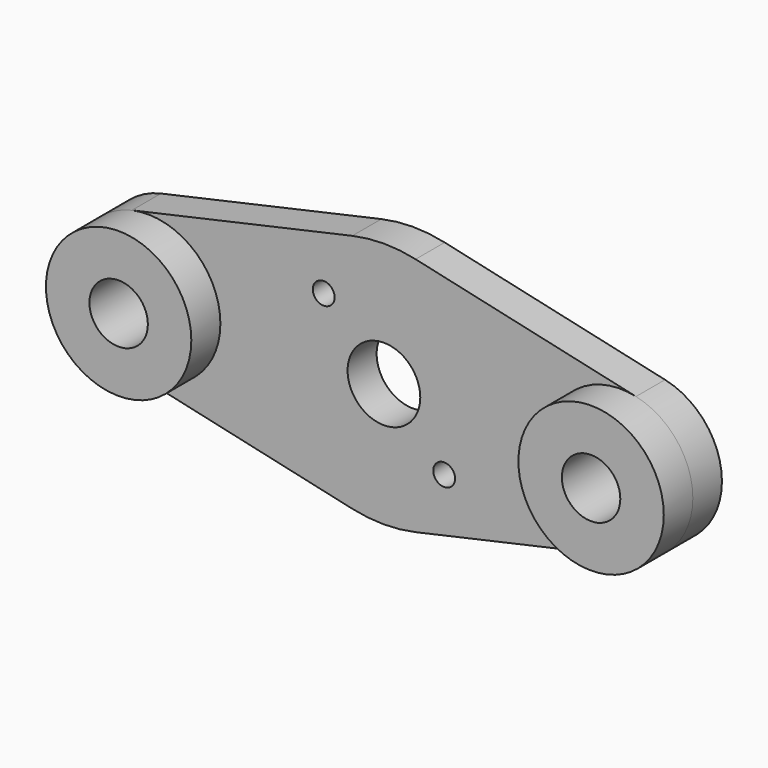
from build123d import *

# Parameters (mm, degrees)
F0_R     = 0.9525
F0_R_2   = 2.5527
F0_R_3   = 3.175
F1_DEPTH = 3.175
F2_R     = 6.35
F2_R_2   = 2.5527
F3_DEPTH = 3.175


with BuildPart() as f1:
    # F0 (on Front) → F1 (new body)
    with BuildSketch(Plane.XZ):
        with BuildLine():
            Line((-2.766543, 10.495013), (-22.020772, 6.197504))
            ThreePointArc((-22.020772, 6.197504), (-26.9875, 0), (-22.020772, -6.197504))
            Line((-22.020772, -6.197504), (-2.766543, -10.495013))
            ThreePointArc((-2.766543, -10.495013), (0, -10.800004), (2.766543, -10.495013))
            Line((2.766543, -10.495013), (22.020772, -6.197504))
            ThreePointArc((22.020772, -6.197504), (26.9875, 0), (22.020772, 6.197504))
            Line((22.020772, 6.197504), (2.766543, 10.495013))
            ThreePointArc((2.766543, 10.495013), (0, 10.800004), (-2.766543, 10.495013))
        make_face()
        with Locations((5.26243, -5.26243)):
            Circle(F0_R, mode=Mode.SUBTRACT)
        with Locations((-20.6375, 0)):
            Circle(F0_R_2, mode=Mode.SUBTRACT)
        with Locations((-5.26243, 5.26243)):
            Circle(F0_R, mode=Mode.SUBTRACT)
        Circle(F0_R_3, mode=Mode.SUBTRACT)
        with Locations((20.6375, 0)):
            Circle(F0_R_2, mode=Mode.SUBTRACT)
    extrude(amount=F1_DEPTH)

    # F2 (on face) → F3 (join)
    with BuildSketch(Plane.XZ.offset(3.175)):
        with Locations((20.6375, 0)):
            Circle(F2_R)
        with Locations((20.6375, 0)):
            Circle(F2_R_2, mode=Mode.SUBTRACT)
        with Locations((-20.6375, 0)):
            Circle(F2_R)
        with Locations((-20.6375, 0)):
            Circle(F2_R_2, mode=Mode.SUBTRACT)
    extrude(amount=F3_DEPTH)


solid = f1.part
